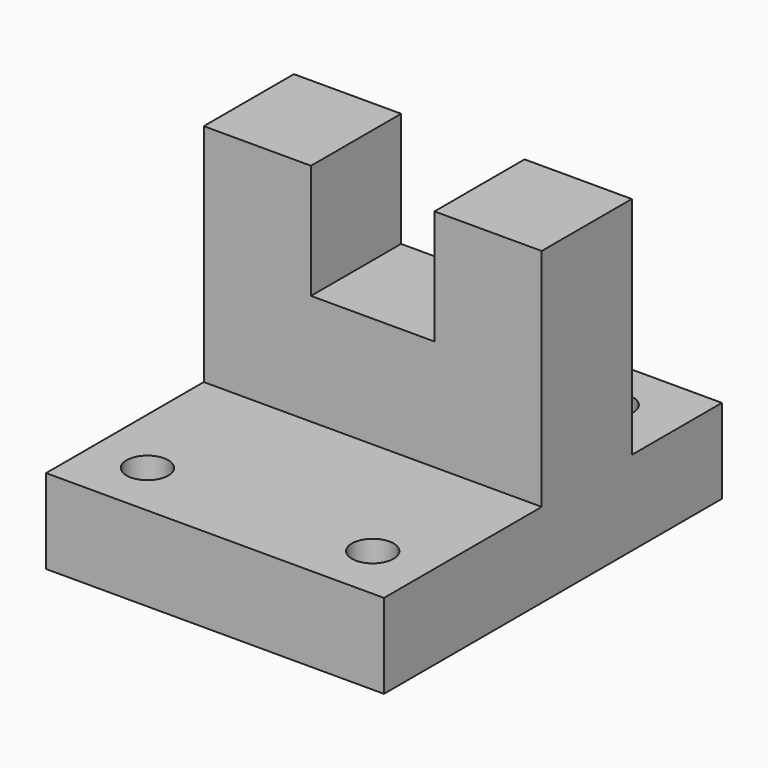
from build123d import *

# Parameters (mm, degrees)
F1_DEPTH = 76.2
F2_W     = 27.847374
F2_H     = 51.670779
F3_DEPTH = 50.801
F4_R     = 4.699
F5_DEPTH = 76.2
F6_DEPTH = 19.051


with BuildPart() as f1:
    # F0 (on Right) → F1 (new body)
    with BuildSketch(Plane.YZ):
        Polygon((-19.618108, -25.540555), (-64.068108, -25.540555), (-64.068108, -44.590555), (31.181892, -44.590555), (31.181892, -25.540555), (5.781892, -25.540555), (5.781892, 25.259445), (-19.618108, 25.259445), align=None)
    extrude(amount=F1_DEPTH)

    # F2 (on face) → F3 (cut, through all)
    with BuildSketch(Plane.XZ.offset(19.618108)):
        with Locations((38.1, 25.259445)):
            Rectangle(F2_W, F2_H)
    extrude(amount=-F3_DEPTH, mode=Mode.SUBTRACT)

    # F4 (on face) → F5 (cut)
    with BuildSketch(Plane.XY.offset(-25.540555)):
        with Locations((12.7, -51.368108)):
            Circle(F4_R)
        with Locations((63.5, -51.368108)):
            Circle(F4_R)
        with Locations((10.562182, 18.481892)):
            Circle(F4_R)
        with Locations((61.609245, 18.481892)):
            Circle(F4_R)
    extrude(amount=F5_DEPTH, mode=Mode.SUBTRACT)

    # F4 (on face) → F6 (cut, through all)
    with BuildSketch(Plane.XY.offset(-25.540555)):
        with Locations((12.7, -51.368108)):
            Circle(F4_R)
        with Locations((63.5, -51.368108)):
            Circle(F4_R)
        with Locations((10.562182, 18.481892)):
            Circle(F4_R)
        with Locations((61.609245, 18.481892)):
            Circle(F4_R)
    extrude(amount=-F6_DEPTH, mode=Mode.SUBTRACT)


solid = f1.part
